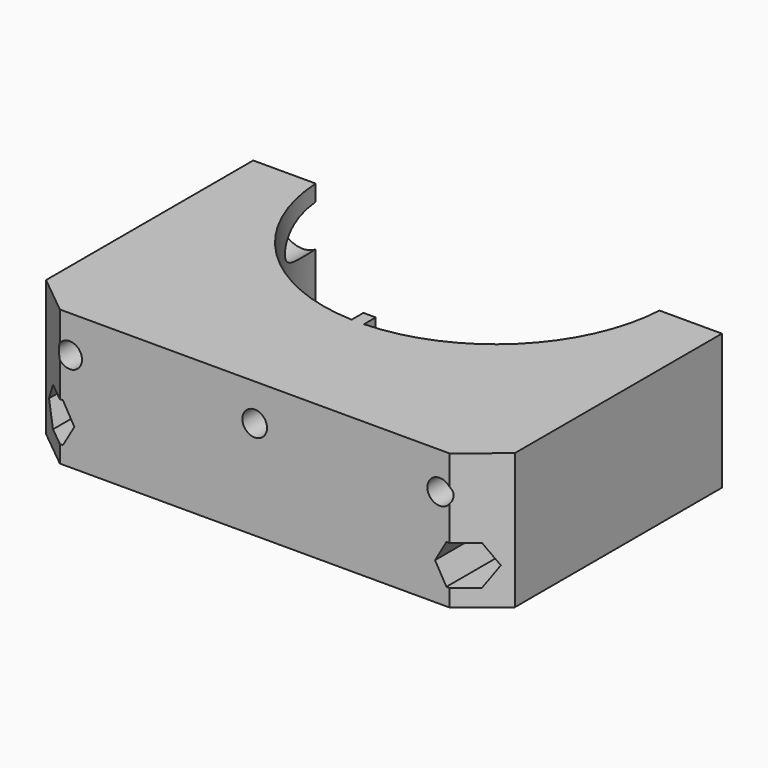
from build123d import *

# Parameters (mm, degrees)
F1_DEPTH  = 34.925
F2_R      = 2.6162
F3_DEPTH  = 74.931
F4_R      = 2.6162
F5_DEPTH  = 74.931
F6_R      = 3.175
F7_DEPTH  = 74.931
F8_R      = 6.35
F9_DEPTH  = 49.53
F11_DEPTH = 22.86
F13_DEPTH = 2.54


with BuildPart() as f1:
    # F0 (on Top) → F1 (new body)
    with BuildSketch(Plane.XY):
        with BuildLine():
            ThreePointArc((-1.5875, -44.2945614354), (-31.002155354, -31.6764059262), (-44.2501607794, -2.54))
            Line((-44.2501607794, -2.54), (-60.325, -2.54))
            Line((-60.325, -2.54), (-60.325, -69.1896))
            Line((-60.325, -69.1896), (-50.165, -77.47))
            Line((-50.165, -77.47), (-1.5875, -77.47))
            Line((-1.5875, -77.47), (-1.5875, -44.2945614354))
        make_face()
        Polygon((-1.5875, -40.513), (-1.5875, -44.2945614354), (-1.5875, -77.47), (1.5875, -77.47), (1.5875, -44.2945614354), (1.5875, -40.513), align=None)
        with BuildLine():
            Line((1.5875, -44.2945614354), (1.5875, -77.47))
            Line((1.5875, -77.47), (50.165, -77.47))
            Line((50.165, -77.47), (60.325, -69.1896))
            Line((60.325, -69.1896), (60.325, -2.54))
            Line((60.325, -2.54), (44.2501607794, -2.54))
            ThreePointArc((44.2501607794, -2.54), (31.002155354, -31.6764059262), (1.5875, -44.2945614354))
        make_face()
    extrude(amount=F1_DEPTH)

    # F2 (on face) → F3 (cut, through all)
    with BuildSketch(Plane(origin=(0, -2.54, 0), x_dir=(-1, 0, 0), z_dir=(0, 1, 0))):
        with Locations((-52.2875803897, 9.525)):
            Circle(F2_R)
    extrude(amount=-F3_DEPTH, mode=Mode.SUBTRACT)

    # F4 (on face) → F5 (cut, through all)
    with BuildSketch(Plane(origin=(0, -2.54, 0), x_dir=(-1, 0, 0), z_dir=(0, 1, 0))):
        with Locations((52.2875803897, 9.525)):
            Circle(F4_R)
    extrude(amount=-F5_DEPTH, mode=Mode.SUBTRACT)

    # F6 (on face) → F7 (cut, through all)
    with BuildSketch(Plane.XZ.offset(77.47)):
        with Locations((-47.625, 25.4)):
            Circle(F6_R)
        with Locations((47.625, 25.4)):
            Circle(F6_R)
        with Locations((0, 25.4)):
            Circle(F6_R)
    extrude(amount=-F7_DEPTH, mode=Mode.SUBTRACT)

    # F8 (on face) → F9 (cut)
    with BuildSketch(Plane(origin=(0, -2.54, 0), x_dir=(-1, 0, 0), z_dir=(0, 1, 0))):
        with Locations((-47.625, 25.4)):
            Circle(F8_R)
        with Locations((0, 25.4)):
            Circle(F8_R)
        with Locations((47.625, 25.4)):
            Circle(F8_R)
    extrude(amount=-F9_DEPTH, mode=Mode.SUBTRACT)

    # F10 (on face) → F11 (cut)
    with BuildSketch(Plane.XZ.offset(77.47)):
        Polygon((-49.3546410222, 4.445), (-46.4217016547, 9.525), (-49.3546410222, 14.605), (-55.2205197572, 14.605), (-58.1534591247, 9.525), (-55.2205197572, 4.445), align=None)
        Polygon((49.3546410222, 14.605), (46.4217016547, 9.525), (49.3546410222, 4.445), (55.2205197572, 4.445), (58.1534591247, 9.525), (55.2205197572, 14.605), align=None)
    extrude(amount=-F11_DEPTH, mode=Mode.SUBTRACT)

    # F12 (on face) → F13 (join)
    with BuildSketch(Plane.XY.offset(34.925)):
        Polygon((-1.5875, -41.783), (-1.5875, -44.323), (1.5875, -44.2945614354), (1.5875, -41.783), align=None)
    extrude(amount=-F13_DEPTH)


solid = f1.part
